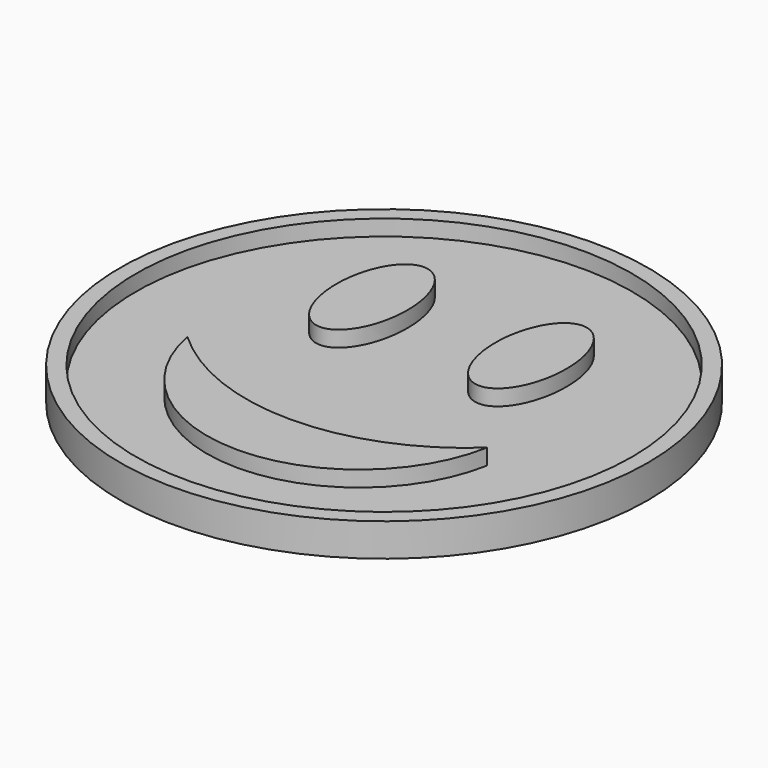
from build123d import *

# Parameters (mm, degrees)
F0_R     = 25.4
F1_DEPTH = 3.175
F2_R     = 23.876
F3_DEPTH = 1.524


with BuildPart() as f1:
    # F0 (on Top) → F1 (new body)
    with BuildSketch(Plane.XY):
        Circle(F0_R)
    extrude(amount=F1_DEPTH)

    # F2 (on face) → F3 (cut)
    with BuildSketch(Plane.XY.offset(3.175)):
        Circle(F2_R)
        with BuildLine():
            ThreePointArc((14.416186, -5.631882), (0, -17.643042), (-14.416186, -5.631882))
            ThreePointArc((-14.416186, -5.631882), (0, -11.285437), (14.416186, -5.631882))
        make_face(mode=Mode.SUBTRACT)
        with BuildLine():
            add(Edge.make_bspline(
                [(-7.649317, 14.344062), (-13.572118, 14.344062), (-10.610717, 4.979291), (-7.649317, -4.38548), (-4.687917, 4.979291), (-1.726517, 14.344062), (-7.649317, 14.344062)],
                knots=[0, 0, 0, 2.094395, 2.094395, 4.18879, 4.18879, 6.283185, 6.283185, 6.283185], degree=2, weights=[1, 0.5, 1, 0.5, 1, 0.5, 1]))
        make_face(mode=Mode.SUBTRACT)
        with BuildLine():
            add(Edge.make_bspline(
                [(7.649317, 14.344062), (1.726517, 14.344062), (4.687917, 4.979291), (7.649317, -4.38548), (10.610717, 4.979291), (13.572118, 14.344062), (7.649317, 14.344062)],
                knots=[0, 0, 0, 2.094395, 2.094395, 4.18879, 4.18879, 6.283185, 6.283185, 6.283185], degree=2, weights=[1, 0.5, 1, 0.5, 1, 0.5, 1]))
        make_face(mode=Mode.SUBTRACT)
    extrude(amount=-F3_DEPTH, mode=Mode.SUBTRACT)


solid = f1.part
